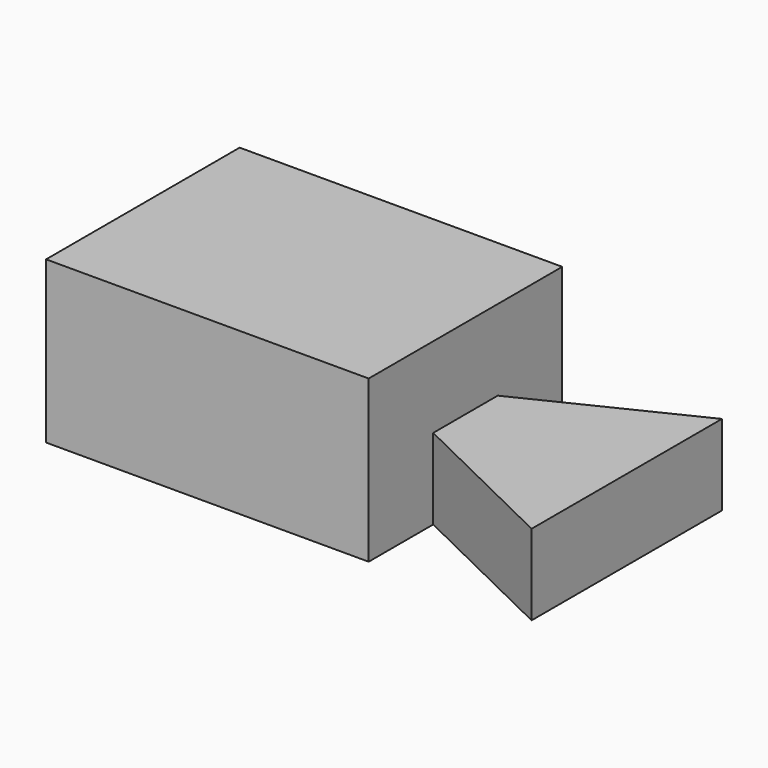
from build123d import *

# Parameters (mm, degrees)
F1_DEPTH = 25.4
F2_DEPTH = 50.8


with BuildPart() as f1:
    # F0 (on Top) → F1 (new body)
    with BuildSketch(Plane.XY):
        Polygon((88.838113, 51.116822), (38.042081, 26.351779), (38.042081, 0.951779), (88.838113, -23.813265), align=None)
    extrude(amount=F1_DEPTH)

    # F0 (on Top) → F2 (join)
    with BuildSketch(Plane.XY):
        Polygon((38.042081, 51.751779), (-63.557919, 51.751779), (-63.557919, -24.448221), (38.042081, -24.448221), (38.042081, 0.951779), (38.042081, 26.351779), align=None)
    extrude(amount=F2_DEPTH)


solid = f1.part
